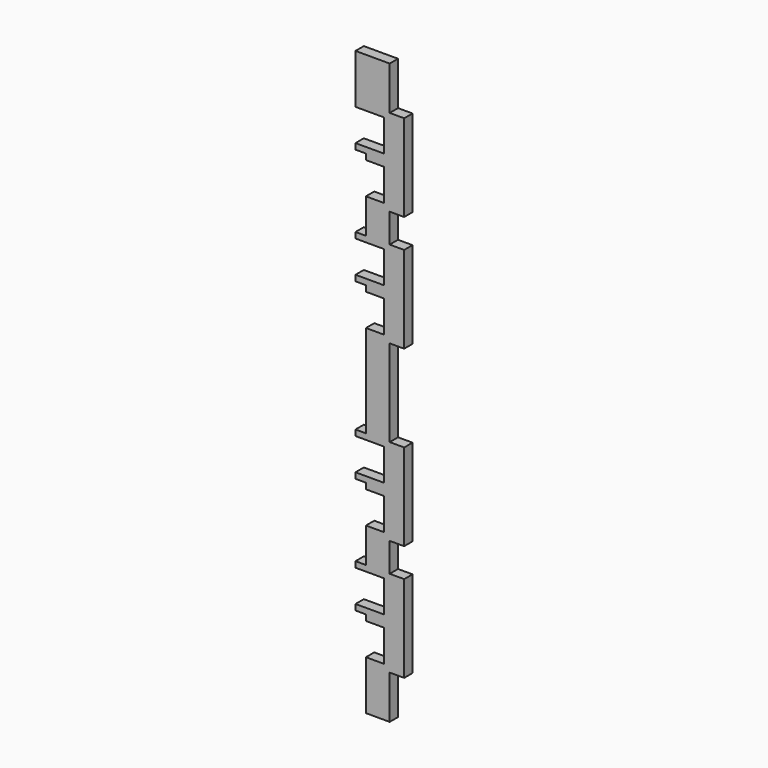
from build123d import *

# Parameters (mm, degrees)
F1_DEPTH = 18


with BuildPart() as f1:
    # F0 (on Front) → F1 (new body)
    with BuildSketch(Plane.XZ):
        Polygon((0, 0), (41, 0), (41, 75), (66, 75), (66, 225), (41, 225), (41, 275), (66, 275), (66, 425), (41, 425), (41, 575), (66, 575), (66, 725), (41, 725), (41, 775), (66, 775), (66, 925), (41, 925), (41, 1000), (-18, 1000), (-18, 915), (31, 915), (31, 860), (-18, 860), (-18, 850), (0, 850), (0, 840), (31, 840), (31, 785), (0, 785), (0, 725), (-18, 725), (-18, 715), (31, 715), (31, 660), (-18, 660), (-18, 650), (0, 650), (0, 640), (31, 640), (31, 585), (0, 585), (0, 425), (-18, 425), (-18, 415), (31, 415), (31, 360), (-18, 360), (-18, 350), (0, 350), (0, 340), (31, 340), (31, 285), (0, 285), (0, 225), (-18, 225), (-18, 215), (31, 215), (31, 160), (-18, 160), (-18, 150), (0, 150), (0, 140), (31, 140), (31, 85), (0, 85), align=None)
    extrude(amount=F1_DEPTH)


solid = f1.part
